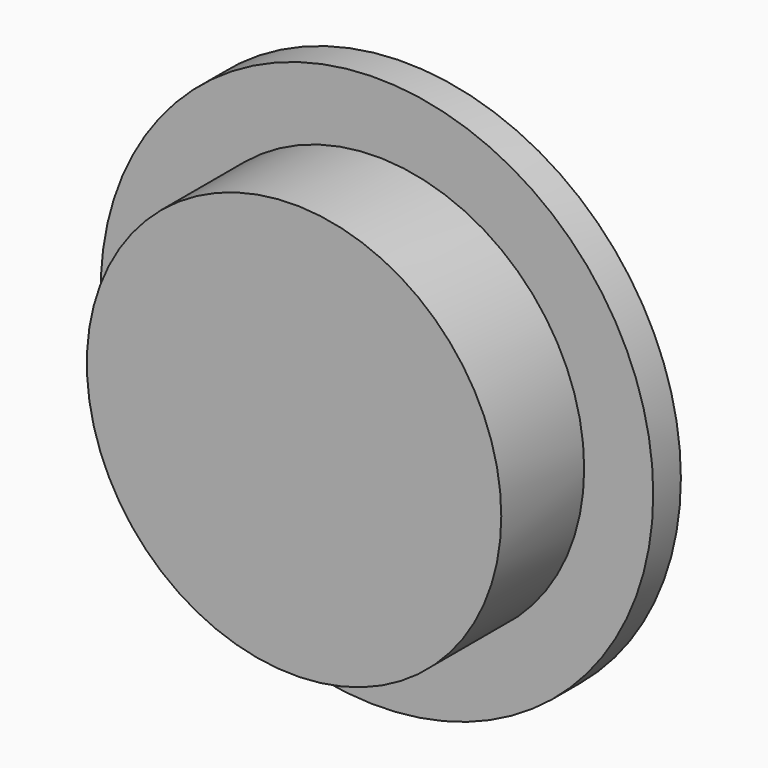
from build123d import *

# Parameters (mm, degrees)
F3_DEPTH = 6.35


with BuildPart() as f1:
    # F0 (on Top) → F1 (revolve)
    with BuildSketch(Plane.XY):
        Polygon((0, 50.8), (0, 0), (76.2, 0), (76.2, 38.1), (101.6, 38.1), (101.6, 50.8), align=None)
    revolve(axis=Axis((0, 25.4, 0), (0, 1, 0)))

    # F2 (on face) → F3 (cut)
    with BuildSketch(Plane(origin=(0, 50.8, 0), x_dir=(-1, 0, 0), z_dir=(0, 1, 0))):
        Polygon((0, -63.5), (54.992613, -31.75), (54.992613, 31.75), (0, 63.5), (-54.992613, 31.75), (-54.992613, -31.75), align=None)
    extrude(amount=-F3_DEPTH, mode=Mode.SUBTRACT)


solid = f1.part
